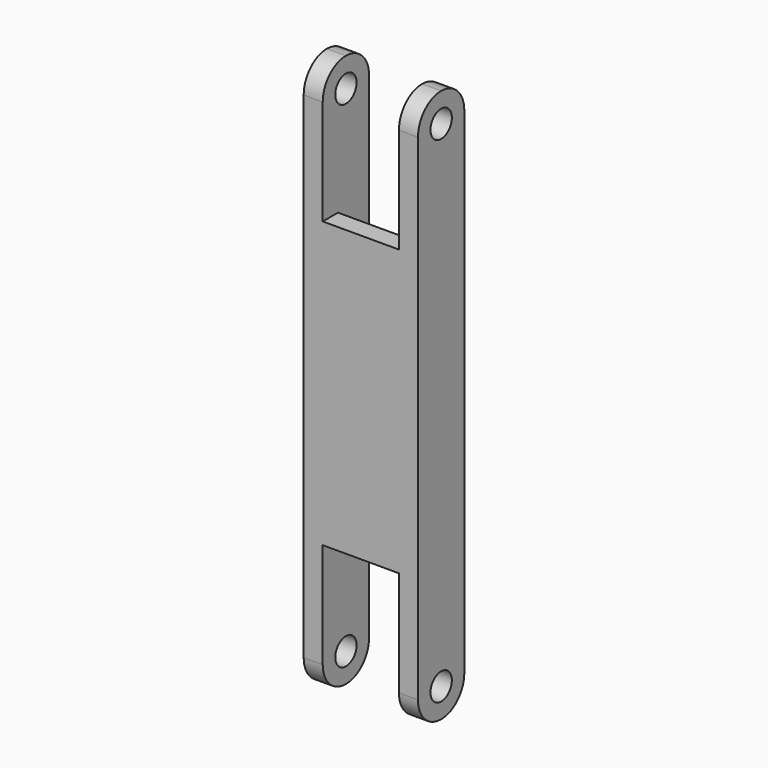
from build123d import *

# Parameters (mm, degrees)
F0_W     = 5
F0_H     = 2.5
F1_DEPTH = 18.7
F2_DEPTH = 36.3
F3_R     = 1.75
F4_DEPTH = 15.001


with BuildPart() as f1:
    # F0 (on Top) → F1 (new body, symmetric)
    with BuildSketch(Plane.XY):
        with Locations((2.5, 1.25)):
            Rectangle(F0_W, F0_H)
        with Locations((-2.5, 1.25)):
            Rectangle(F0_W, F0_H)
    extrude(amount=F1_DEPTH, both=True)

    # F0 (on Top) → F2 (join, symmetric)
    with BuildSketch(Plane.XY):
        Polygon((5, 7.6), (5, 2.5), (5, 0), (7.5, 0), (7.5, 7.6), align=None)
        Polygon((-5, 7.6), (-7.5, 7.6), (-7.5, 0), (-5, 0), (-5, 2.5), align=None)
    extrude(amount=F2_DEPTH, both=True)

    # F3 (on face) → F4 (cut, through all)
    with BuildSketch(Plane.YZ.offset(7.5)):
        with Locations((3.8, 32.5)):
            Circle(F3_R)
        Polygon((0, 36.3), (3.8, 36.3), (7.6, 36.3), (7.6, 42.815186), (0, 42.815186), align=None)
        with BuildLine():
            ThreePointArc((3.8, 36.3), (6.487006, 35.187006), (7.6, 32.5))
            Line((7.6, 32.5), (7.6, 36.3))
            Line((7.6, 36.3), (3.8, 36.3))
        make_face()
        with BuildLine():
            Line((0, 36.3), (0, 32.5))
            ThreePointArc((0, 32.5), (1.112994, 35.187006), (3.8, 36.3))
            Line((3.8, 36.3), (0, 36.3))
        make_face()
        with Locations((3.8, -32.5)):
            Circle(F3_R)
        Polygon((7.6, -36.3), (3.8, -36.3), (0, -36.3), (0, -42.815186), (7.6, -42.815186), align=None)
        with BuildLine():
            Line((7.6, -36.3), (7.6, -32.5))
            ThreePointArc((7.6, -32.5), (6.487006, -35.187006), (3.8, -36.3))
            Line((3.8, -36.3), (7.6, -36.3))
        make_face()
        with BuildLine():
            ThreePointArc((3.8, -36.3), (1.112994, -35.187006), (0, -32.5))
            Line((0, -32.5), (0, -36.3))
            Line((0, -36.3), (3.8, -36.3))
        make_face()
    extrude(amount=-F4_DEPTH, mode=Mode.SUBTRACT)


solid = f1.part
